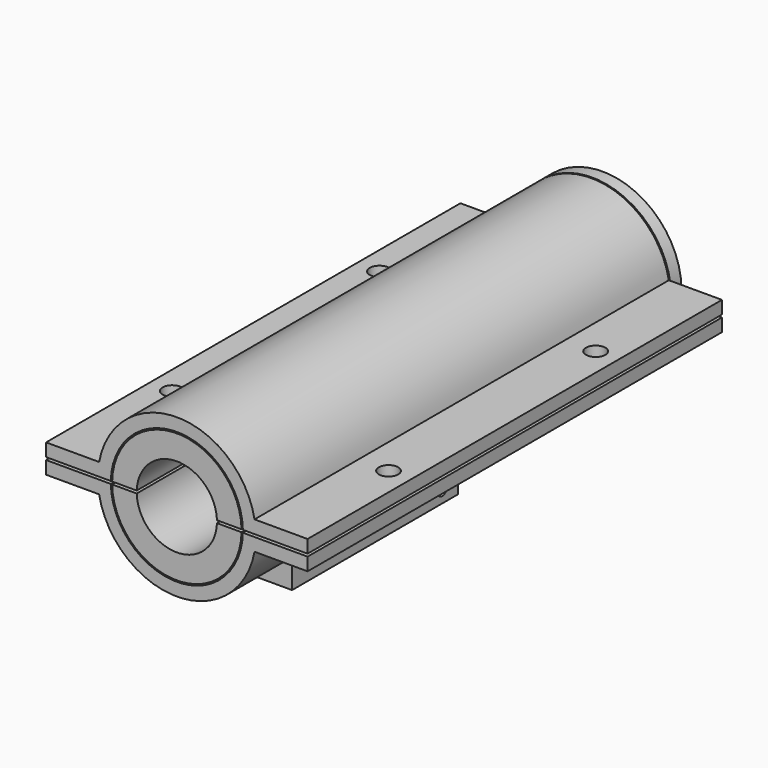
from build123d import *

# Parameters (mm, degrees)
F1_DEPTH  = 254
F3_W      = 31.75
F3_H      = 101.6
F6_DEPTH  = 88.9
F7_R      = 3.175
F8_DEPTH  = 80.0057947322
F9_R      = 4.7625
F10_DEPTH = 58.421
F15_W     = 128.2595894644
F15_H     = 1.27
F16_DEPTH = 260.986
F17_W     = 128.2595894644
F17_H     = 1.27
F18_DEPTH = 260.986


with BuildPart() as f1:
    # F0 (on Front) → F1 (new body)
    with BuildSketch(Plane.XZ):
        with BuildLine():
            ThreePointArc((32.3787739113, -0.635), (0, -32.385), (-32.3787739113, -0.635))
            Line((-32.3787739113, -0.635), (-38.7297947322, -0.635))
            Line((-38.7297947322, -0.635), (-64.1297947322, -0.635))
            Line((-64.1297947322, -0.635), (-64.1297947322, -6.985))
            Line((-64.1297947322, -6.985), (-38.1, -6.985))
            ThreePointArc((-38.1, -6.985), (0, -38.735), (38.1, -6.985))
            Line((38.1, -6.985), (64.1297947322, -6.985))
            Line((64.1297947322, -6.985), (64.1297947322, -0.635))
            Line((64.1297947322, -0.635), (38.7297947322, -0.635))
            Line((38.7297947322, -0.635), (32.3787739113, -0.635))
        make_face()
    extrude(amount=F1_DEPTH)

    # F3 (on offset) → F4 (join, up to the next surface of F1)
    with BuildSketch(Plane.XY.offset(-51.435)):
        with Locations((0, -152.4)):
            Rectangle(F3_W, F3_H)
    extrude(until=Until.NEXT)

    # F5 (on face) → F6 (cut)
    with BuildSketch(Plane(origin=(0, -101.6, 0), x_dir=(-1, 0, 0), z_dir=(0, 1, 0))):
        Polygon((-3.175, -51.435), (0, -51.435), (3.175, -51.435), (9.525, -45.085), (0, -45.085), (-9.525, -45.085), align=None)
    extrude(amount=-F6_DEPTH, mode=Mode.SUBTRACT)

    # F7 (on face) → F8 (cut, through all)
    with BuildSketch(Plane(origin=(-15.875, 0, 0), x_dir=(0, -1, 0), z_dir=(-1, 0, 0))):
        with Locations((111.125, -45.085)):
            Circle(F7_R)
    extrude(amount=-F8_DEPTH, mode=Mode.SUBTRACT)


with BuildPart() as f1b:
    # F0 (on Front) → F1, piece 2 (new body)
    with BuildSketch(Plane.XZ):
        with BuildLine():
            Line((-64.1297947322, 0.635), (-38.7297947322, 0.635))
            Line((-38.7297947322, 0.635), (-32.3787739113, 0.635))
            ThreePointArc((-32.3787739113, 0.635), (0, 32.385), (32.3787739113, 0.635))
            Line((32.3787739113, 0.635), (38.7297947322, 0.635))
            Line((38.7297947322, 0.635), (64.1297947322, 0.635))
            Line((64.1297947322, 0.635), (64.1297947322, 6.985))
            Line((64.1297947322, 6.985), (38.1, 6.985))
            ThreePointArc((38.1, 6.985), (0, 38.735), (-38.1, 6.985))
            Line((-38.1, 6.985), (-64.1297947322, 6.985))
            Line((-64.1297947322, 6.985), (-64.1297947322, 0.635))
        make_face()
    extrude(amount=F1_DEPTH)


with BuildPart() as f10_tool:
    # F9 (on face) → F10 (new body, through all)
    with BuildSketch(Plane.XY.offset(6.985)):
        with Locations((53.0172947322, -190.5)):
            Circle(F9_R)
        with Locations((53.0172947322, -63.5)):
            Circle(F9_R)
        with Locations((-53.0172947322, -190.5)):
            Circle(F9_R)
        with Locations((-53.0172947322, -63.5)):
            Circle(F9_R)
    extrude(amount=-F10_DEPTH)


with BuildPart() as f1_1:
    add(f1.part)

    # F10: cut by f10_tool
    add(f10_tool.part, mode=Mode.SUBTRACT)

    # F17 (on face) → F18 (cut, through all)
    with BuildSketch(Plane(origin=(0, 6.985, 0), x_dir=(-1, 0, 0), z_dir=(0, 1, 0))):
        Rectangle(F17_W, F17_H)
    extrude(amount=-F18_DEPTH, mode=Mode.SUBTRACT)


with BuildPart() as f1b_1:
    add(f1b.part)

    # F10: cut by f10_tool
    add(f10_tool.part, mode=Mode.SUBTRACT)


with BuildPart() as f12:
    # F11 (on Top) → F12 (revolve)
    with BuildSketch(Plane.XY):
        Polygon((38.735, 6.985), (22.86, 6.985), (22.86, -123.5075), (22.86, -254), (31.7437739113, -254), (31.7437739113, -123.5075), (31.7437739113, 0.635), (38.735, 0.635), align=None)
    revolve(axis=Axis((0, -123.5075, 0), (0, 1, 0)))


with BuildPart() as f14:
    # F13 (on Top) → F14 (revolve)
    with BuildSketch(Plane.XY):
        Polygon((38.735, 6.985), (19.685, 6.985), (19.685, -254), (31.7437739113, -254), (31.7437739113, 0.635), (38.735, 0.635), align=None)
    revolve(axis=Axis((0, -123.5075, 0), (0, 1, 0)))


with BuildPart() as f16_tool:
    # F15 (on face) → F16 (new body, through all)
    with BuildSketch(Plane(origin=(0, 6.985, 0), x_dir=(-1, 0, 0), z_dir=(0, 1, 0))):
        Rectangle(F15_W, F15_H)
    extrude(amount=-F16_DEPTH)


with BuildPart() as f12_1:
    add(f12.part)

    # F16: cut by f16_tool
    add(f16_tool.part, mode=Mode.SUBTRACT)


with BuildPart() as f14_1:
    add(f14.part)

    # F16: cut by f16_tool
    add(f16_tool.part, mode=Mode.SUBTRACT)


solid = Compound([f1_1.part, f1b_1.part, f12_1.part, f14_1.part])
